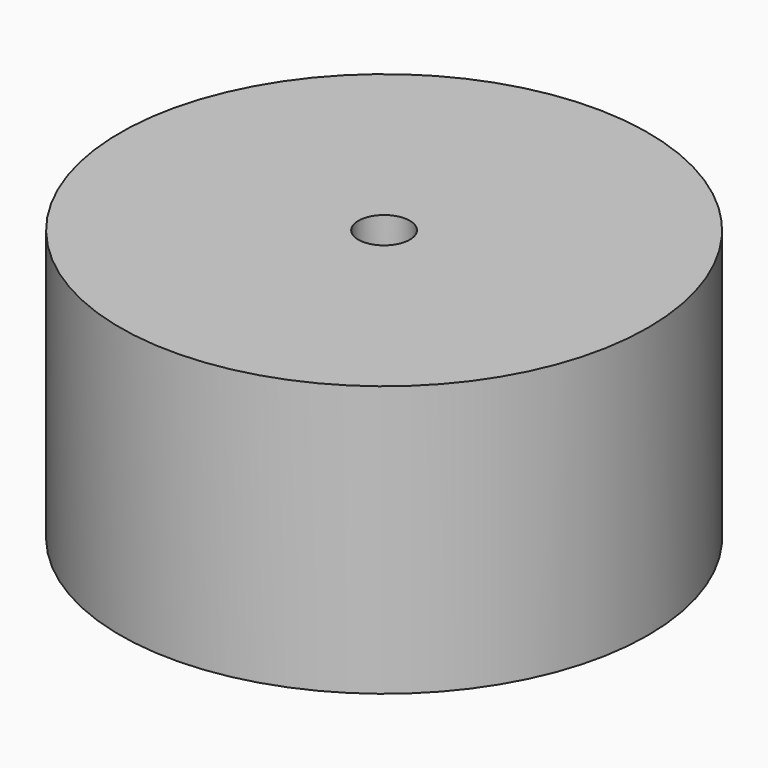
from build123d import *

# Parameters (mm, degrees)
F0_R     = 12.3825
F1_DEPTH = 12.7
F2_R     = 1.2065
F3_DEPTH = 25.4
F3_TAPER = -1


with BuildPart() as f1:
    # F0 (on Top) → F1 (new body)
    with BuildSketch(Plane.XY):
        Circle(F0_R)
    extrude(amount=F1_DEPTH)

    # F2 (on face) → F3 (cut)
    with BuildSketch(Plane.XY.offset(12.7)):
        Circle(F2_R)
    extrude(amount=-F3_DEPTH, taper=F3_TAPER, mode=Mode.SUBTRACT)


solid = f1.part
